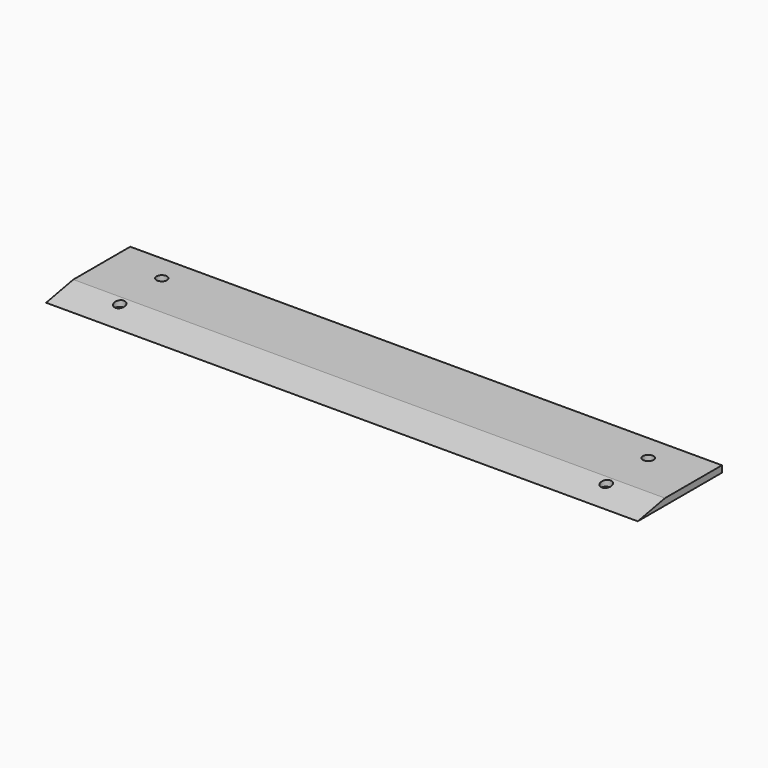
from build123d import *

# Parameters (mm, degrees)
F0_W     = 285.75
F0_H     = 50.8
F0_R     = 2.5527
F1_DEPTH = 3.175
F3_DEPTH = 285.751


with BuildPart() as f1:
    # F0 (on Top) → F1 (new body)
    with BuildSketch(Plane.XY):
        with Locations((142.875, -25.4)):
            Rectangle(F0_W, F0_H)
        with Locations((25.4, -38.1)):
            Circle(F0_R, mode=Mode.SUBTRACT)
        with Locations((260.35, -38.1)):
            Circle(F0_R, mode=Mode.SUBTRACT)
        with Locations((25.4, -12.7)):
            Circle(F0_R, mode=Mode.SUBTRACT)
        with Locations((260.35, -12.7)):
            Circle(F0_R, mode=Mode.SUBTRACT)
    extrude(amount=F1_DEPTH)

    # F2 (on face) → F3 (cut, through all)
    with BuildSketch(Plane.YZ.offset(285.75)):
        Polygon((-50.8, 3.175), (-50.8, 0), (-34.366313, 3.175), align=None)
    extrude(amount=-F3_DEPTH, mode=Mode.SUBTRACT)


solid = f1.part
